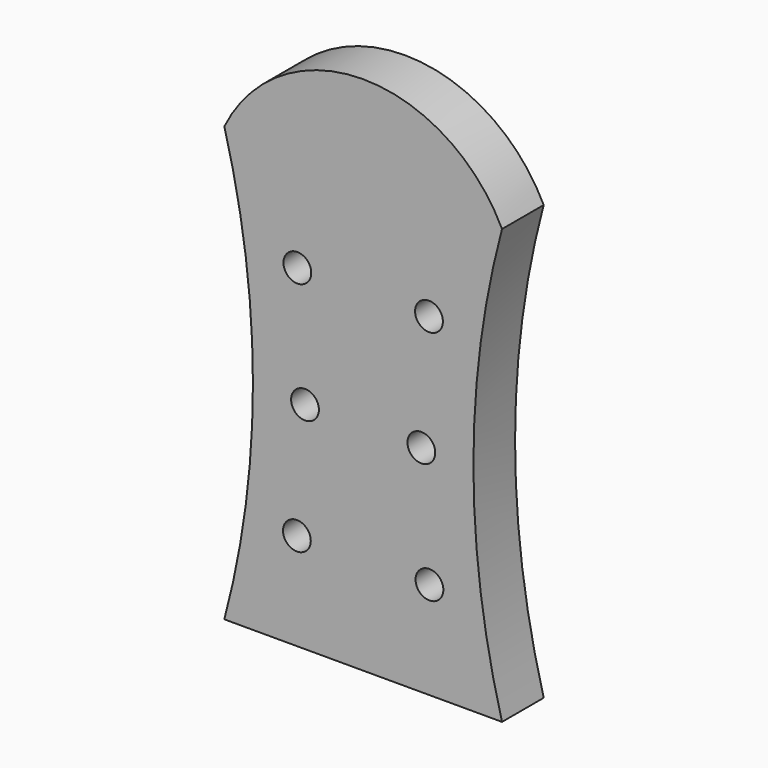
from build123d import *

# Parameters (mm, degrees)
F1_DEPTH = 15
F2_R     = 4
F3_DEPTH = 15.001


with BuildPart() as f1:
    # F0 (on Front) → F1 (new body)
    with BuildSketch(Plane.XZ):
        with BuildLine():
            ThreePointArc((40, -62.5), (31.758772, 0), (40, 62.5))
            Line((40, 62.5), (-40, 62.5))
            ThreePointArc((-40, 62.5), (-31.758772, 0), (-40, -62.5))
            Line((-40, -62.5), (40, -62.5))
        make_face()
        with BuildLine():
            Line((-40, 62.5), (40, 62.5))
            ThreePointArc((40, 62.5), (0, 87.5), (-40, 62.5))
        make_face()
    extrude(amount=F1_DEPTH)

    # F2 (on face) → F3 (cut, through all)
    with BuildSketch(Plane.XZ.offset(15)):
        with Locations((-19.093072, -34.5)):
            Circle(F2_R)
        with Locations((-16.75926, -0.5)):
            Circle(F2_R)
        with Locations((-18.959134, 33.5)):
            Circle(F2_R)
        with Locations((18.959134, 33.5)):
            Circle(F2_R)
        with Locations((16.75926, -0.5)):
            Circle(F2_R)
        with Locations((19.093072, -34.5)):
            Circle(F2_R)
    extrude(amount=-F3_DEPTH, mode=Mode.SUBTRACT)


solid = f1.part
